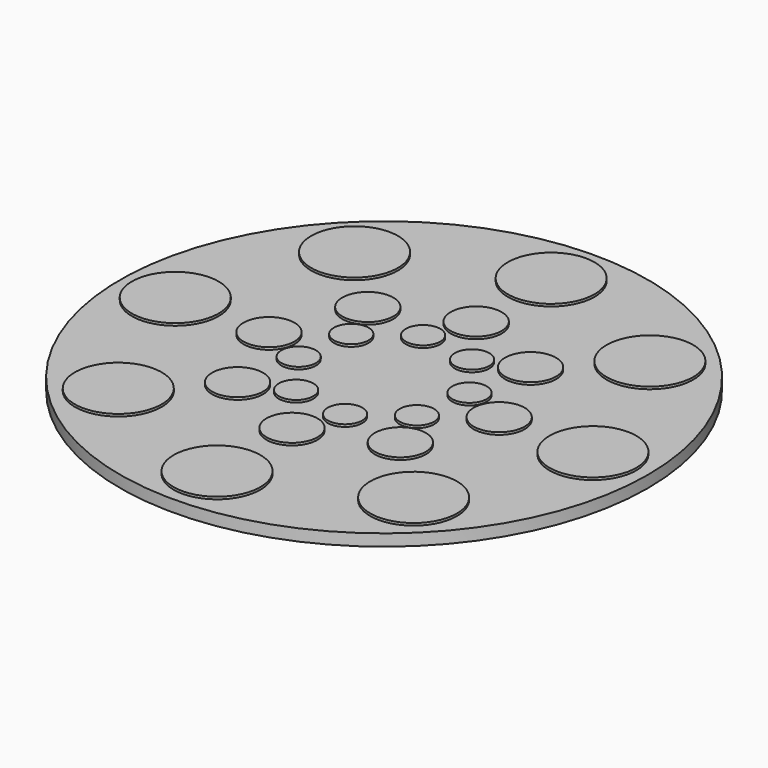
from build123d import *

# Parameters (mm, degrees)
F0_R     = 225
F1_DEPTH = 10
F2_R     = 36.9864384412
F2_R_2   = 21.7454824125
F2_R_3   = 14.7171600395
F3_DEPTH = 2
F5_COUNT = 8


with BuildPart() as f1:
    # F0 (on Top) → F1 (new body)
    with BuildSketch(Plane.XY):
        Circle(F0_R)
    extrude(amount=F1_DEPTH)

    # F2 (on face) → F3 (join)
    with BuildSketch(Plane.XY.offset(10)):
        with Locations((0, 178.0137121677)):
            Circle(F2_R)
        with Locations((0, 98.1170013547)):
            Circle(F2_R_2)
        with Locations((-15.2443298139, 60.619816184)):
            Circle(F2_R_3)
    extrude(amount=F3_DEPTH)

    # F5: F1 ×8 about axis
    f5_axis = Axis((0, 0, 41.8870747089), (0, 0, 1))


with BuildPart() as f1_1:
    add(f1.part)
    for i in range(1, F5_COUNT):
        add(f1.part.rotate(f5_axis, i * 360 / F5_COUNT))


solid = f1_1.part
